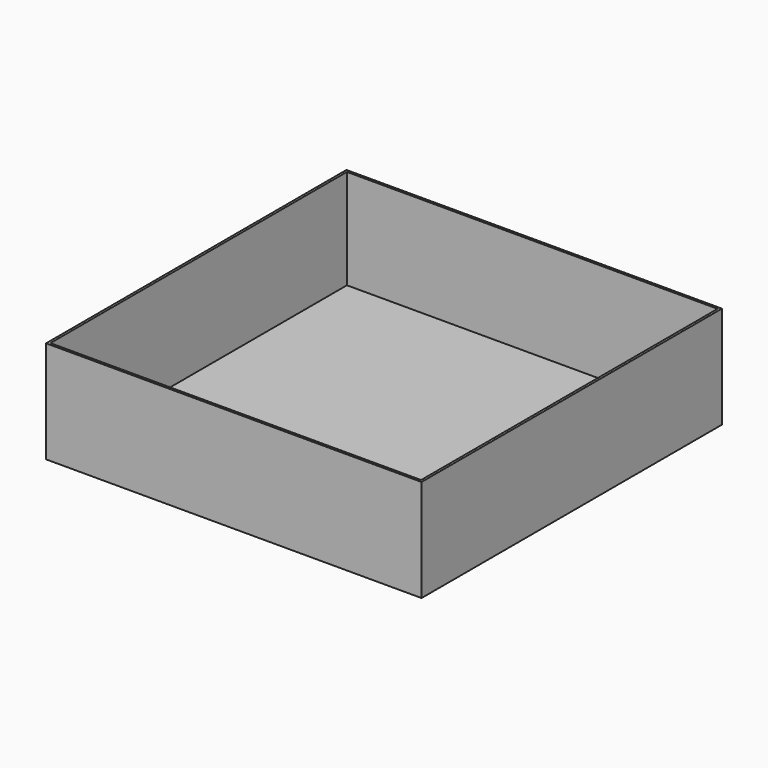
from build123d import *

# Parameters (mm, degrees)
F0_W     = 247.65
F0_H     = 247.65
F1_DEPTH = 1.5875
F2_W     = 250.825
F2_H     = 250.825
F2_W_2   = 247.65
F2_H_2   = 247.65
F3_DEPTH = 68.2625


with BuildPart() as f1:
    # F0 (on Top) → F1 (new body)
    with BuildSketch(Plane.XY):
        Rectangle(F0_W, F0_H)
    extrude(amount=F1_DEPTH)

    # F2 (on Top) → F3 (join)
    with BuildSketch(Plane.XY):
        Rectangle(F2_W, F2_H)
        Rectangle(F2_W_2, F2_H_2, mode=Mode.SUBTRACT)
    extrude(amount=F3_DEPTH)


solid = f1.part
